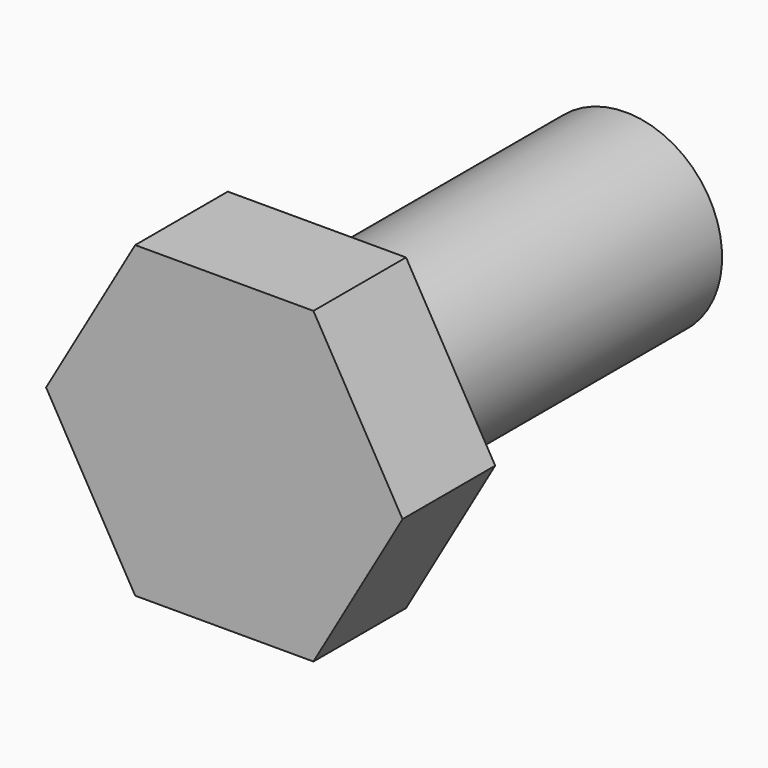
from build123d import *

# Parameters (mm, degrees)
F1_DEPTH = 6
F2_R     = 5
F3_DEPTH = 20


with BuildPart() as f1:
    # F0 (on Front) → F1 (new body)
    with BuildSketch(Plane.XZ):
        Polygon((-53.235832, 66.025956), (-62.473436, 66.025956), (-67.092238, 58.025956), (-62.473436, 50.025956), (-53.235832, 50.025956), (-48.617029, 58.025956), align=None)
    extrude(amount=F1_DEPTH)

    # F2 (on face) → F3 (join)
    with BuildSketch(Plane(origin=(0, 0, 0), x_dir=(-1, 0, 0), z_dir=(0, 1, 0))):
        with Locations((57.854634, 58.025956)):
            Circle(F2_R)
    extrude(amount=F3_DEPTH)


solid = f1.part
